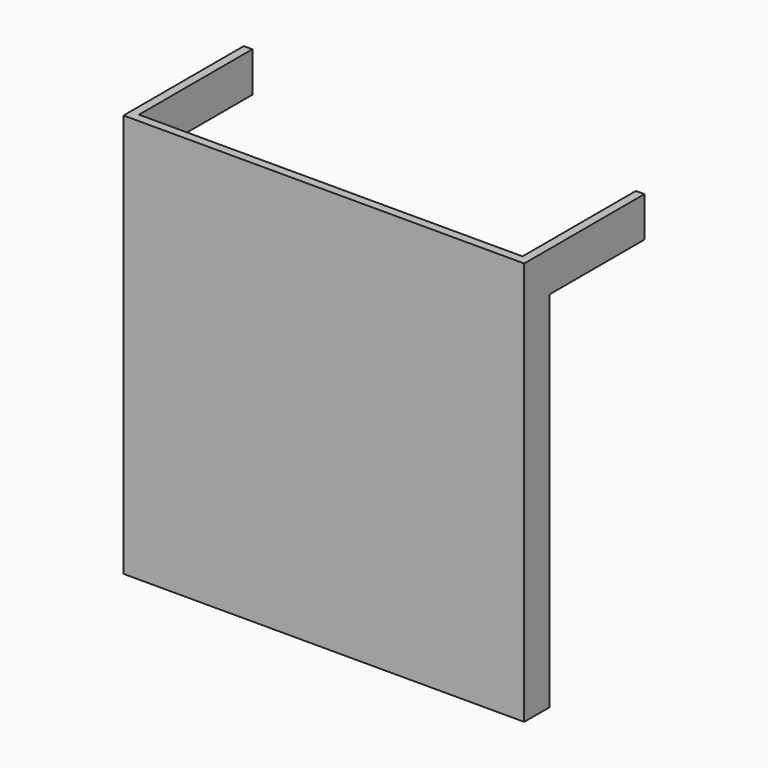
from build123d import *

# Parameters (mm, degrees)
F0_W     = 889
F0_H     = 895.35
F1_DEPTH = 19.05
F2_W     = 19.05
F2_H     = 895.35
F3_DEPTH = 50.8
F4_W     = 19.05
F4_H     = 88.9
F5_DEPTH = 263.525
F6_W     = 19.05
F6_H     = 88.9
F7_DEPTH = 263.525


with BuildPart() as f1:
    # F0 (on Front) → F1 (new body)
    with BuildSketch(Plane.XZ):
        Rectangle(F0_W, F0_H)
    extrude(amount=F1_DEPTH)

    # F2 (on face) → F3 (join)
    with BuildSketch(Plane(origin=(0, 0, 0), x_dir=(-1, 0, 0), z_dir=(0, 1, 0))):
        with Locations((-434.975, 0)):
            Rectangle(F2_W, F2_H)
        with Locations((434.975, 0)):
            Rectangle(F2_W, F2_H)
    extrude(amount=F3_DEPTH)

    # F4 (on face) → F5 (join)
    with BuildSketch(Plane(origin=(0, 50.8, 0), x_dir=(-1, 0, 0), z_dir=(0, 1, 0))):
        with Locations((-434.975, 403.225)):
            Rectangle(F4_W, F4_H)
    extrude(amount=F5_DEPTH)

    # F6 (on face) → F7 (join)
    with BuildSketch(Plane(origin=(0, 50.8, 0), x_dir=(-1, 0, 0), z_dir=(0, 1, 0))):
        with Locations((434.975, 403.225)):
            Rectangle(F6_W, F6_H)
    extrude(amount=F7_DEPTH)


solid = f1.part
